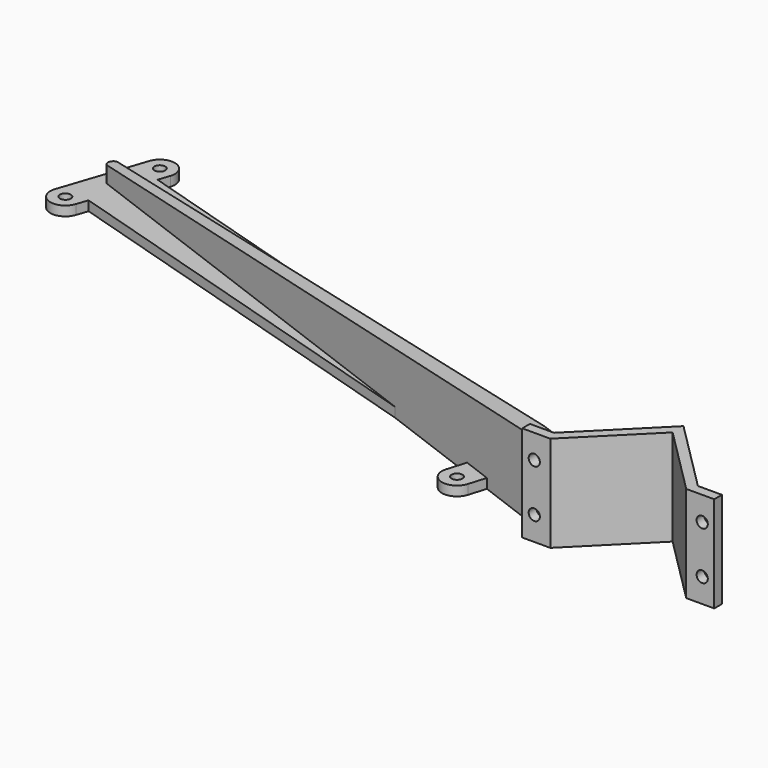
from build123d import *

# Parameters (mm, degrees)
PAD_DEPTH               = 15
SKETCH001_R             = 1.75
POCKET_DEPTH            = 5
PAD_MIRRORED_2_DEPTH    = 15
SKETCH001_MIRRORED_2_R  = 1.75
POCKET_MIRRORED_2_DEPTH = 5
SKETCH002_R             = 1.7
PAD001_DEPTH            = 3
SKETCH003_R             = 1.7
PAD002_DEPTH            = 3
PAD003_DEPTH            = 24
POCKET001_DEPTH         = 92.622546
SKETCH006_R             = 1.75
POCKET002_DEPTH         = 92.622546


with BuildPart() as body001:
    # Sketch → Pad (new body)
    with BuildSketch(Plane.XY):
        Polygon((0, 21.213203), (21.213203, 0), (29.955844, 0), (29.955844, 3), (22.455844, 3), (0, 25.455844), align=None)
    pad = extrude(amount=PAD_DEPTH)

    # Sketch001 → Pocket (cut)
    with BuildSketch(Plane.XZ):
        with Locations((26.203203, 7.5)):
            Circle(SKETCH001_R)
    pocket = extrude(amount=-POCKET_DEPTH, mode=Mode.SUBTRACT)

    # Sketch Mirrored 2 → Pad Mirrored 2 (add)
    with BuildSketch(Plane(origin=(0, 0, 0), x_dir=(-1, 0, 0), z_dir=(0, 0, -1))):
        Polygon((0, 21.213203), (21.213203, 0), (29.955844, 0), (29.955844, 3), (22.455844, 3), (0, 25.455844), align=None)
    pad_mirrored_2 = extrude(amount=-PAD_MIRRORED_2_DEPTH)

    # Sketch001 Mirrored 2 → Pocket Mirrored 2 (cut)
    with BuildSketch(Plane(origin=(0, 0, 0), x_dir=(-1, 0, 0), z_dir=(0, 1, 0))):
        with Locations((26.203203, 7.5)):
            Circle(SKETCH001_MIRRORED_2_R)
    pocket_mirrored_2 = extrude(amount=POCKET_MIRRORED_2_DEPTH, mode=Mode.SUBTRACT)

    # Mirrored001: Pad, Pocket, Pad Mirrored 2, Pocket Mirrored 2 across XY
    add(pad.mirror(Plane.XY))
    add(pocket.mirror(Plane.XY), mode=Mode.SUBTRACT)
    add(pad_mirrored_2.mirror(Plane.XY))
    add(pocket_mirrored_2.mirror(Plane.XY), mode=Mode.SUBTRACT)

    # Sketch002 → Pad001 (join)
    with BuildSketch(Plane.XY.offset(-15)):
        with BuildLine():
            Line((0, 25.455844), (-22.455844, 3))
            Line((-22.455844, 3), (-29.955844, 3))
            Line((-26.858716, 11.291407), (-29.955844, 3))
            ThreePointArc((-25.779246, 12.970205), (-26.409124, 12.188768), (-26.858716, 11.291407))
            Line((-25.779246, 12.970205), (-9.970206, 28.779246))
            ThreePointArc((-3.323402, 28.779246), (-6.646804, 30.155844), (-9.970206, 28.779246))
            Line((0, 25.455844), (-3.323402, 28.779246))
        make_face()
        with Locations((-22.455844, 9.646804)):
            Circle(SKETCH002_R, mode=Mode.SUBTRACT)
        with Locations((-6.646804, 25.455844)):
            Circle(SKETCH002_R, mode=Mode.SUBTRACT)
    extrude(amount=PAD001_DEPTH)


with BuildPart() as body001_1:
    # Body001 placement: moved
    add(body001.part.moved(Location((0, 0, 12))))


with BuildPart() as body002:
    # Sketch003 → Pad002 (new body)
    with BuildSketch(Plane.XY):
        with BuildLine():
            ThreePointArc((-3.464824, 22.273863), (-3.464824, 28.637825), (-9.828785, 28.637824))
            Line((-13.004121, 25.462488), (-9.828785, 28.637824))
            ThreePointArc((-17.495615, 24.339219), (-15.094329, 24.278918), (-13.004121, 25.462488))
            Line((-17.495615, 24.339219), (-41.88123, 31.756507))
            ThreePointArc((-41.88123, 31.756507), (-45.196896, 36.648007), (-50.674678, 34.431179))
            Line((-50.674678, 34.431179), (-210.109304, 82.925856))
            Line((-210.109304, 82.925856), (-208.937414, 86.431436))
            ThreePointArc((-208.937414, 86.431436), (-211.90484, 92.379078), (-217.852478, 89.411645))
            Line((-217.852478, 89.411645), (-226.539542, 63.425228))
            ThreePointArc((-226.539542, 63.425228), (-223.572135, 57.477584), (-217.624489, 60.444989))
            Line((-216.452601, 63.950565), (-217.624489, 60.444989))
            Line((-216.452601, 63.950565), (-57.311177, 15.54507))
            Line((-59.748275, 7.532692), (-57.311177, 15.54507))
            ThreePointArc((-59.748275, 7.532692), (-56.619394, 1.668384), (-50.755086, 4.797265))
            Line((-50.755086, 4.797265), (-48.317989, 12.809643))
            Line((-48.317989, 12.809643), (-23.765357, 5.341554))
            ThreePointArc((-23.765357, 5.341554), (-21.364072, 5.281253), (-19.273863, 6.464823))
            Line((-19.273863, 6.464823), (-3.464824, 22.273863))
        make_face()
        with Locations((-22.455844, 9.646804)):
            Circle(SKETCH003_R, mode=Mode.SUBTRACT)
        with Locations((-6.646804, 25.455844)):
            Circle(SKETCH003_R, mode=Mode.SUBTRACT)
        with Locations((-213.394944, 87.921546)):
            Circle(SKETCH003_R, mode=Mode.SUBTRACT)
        with Locations((-222.082015, 61.935111)):
            Circle(SKETCH003_R, mode=Mode.SUBTRACT)
        with Locations((-46.56461, 32.151413)):
            Circle(SKETCH003_R, mode=Mode.SUBTRACT)
        with Locations((-55.25168, 6.164978)):
            Circle(SKETCH003_R, mode=Mode.SUBTRACT)
    extrude(amount=PAD002_DEPTH)

    # Sketch004 → Pad003 (join)
    with BuildSketch(Plane.XY):
        with BuildLine():
            Line((-29.955844, 3), (-22.455844, 3))
            Line((-22.455844, 3), (-22.455844, 6))
            Line((-22.455844, 6), (-217.228985, 76.339149))
            ThreePointArc((-217.228985, 76.339149), (-219.146273, 75.446128), (-218.264567, 73.523611))
            Line((-29.955844, 3), (-218.264567, 73.523611))
        make_face()
    extrude(amount=PAD003_DEPTH)

    # Sketch005 → Pocket001 (cut, through all)
    with BuildSketch(Plane.XZ):
        Polygon((-30, 24), (-219.520844, 24), (-219.520844, 8), align=None)
    extrude(amount=-POCKET001_DEPTH, mode=Mode.SUBTRACT)

    # Sketch006 → Pocket002 (cut, through all)
    with BuildSketch(Plane.XZ):
        with Locations((-26.2, 11)):
            Circle(SKETCH006_R)
        with Locations((-26.2, 19.5)):
            Circle(SKETCH006_R)
    extrude(amount=-POCKET002_DEPTH, mode=Mode.SUBTRACT)


solid = Compound([body001_1.part, body002.part])
